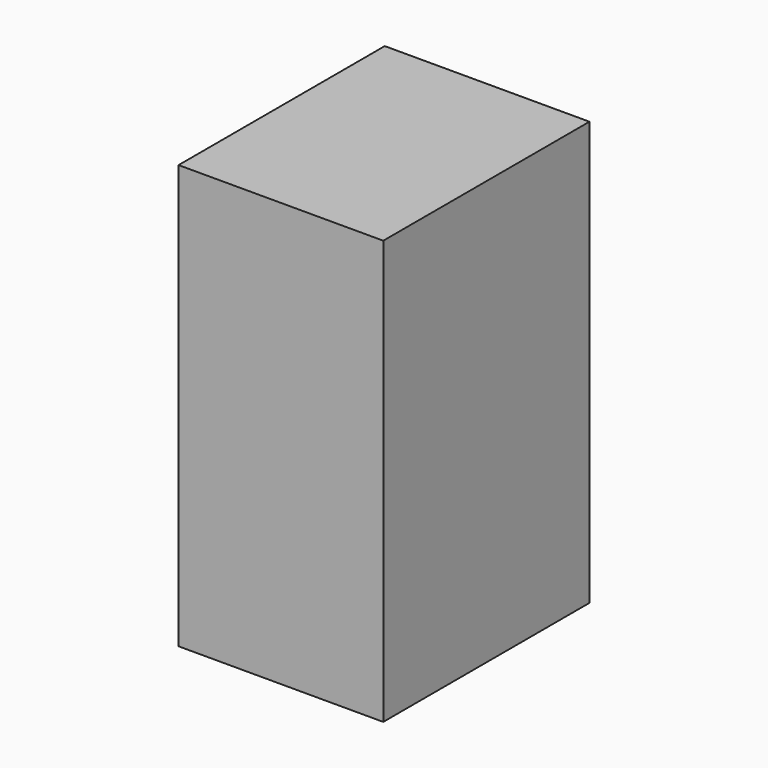
from build123d import *

# Parameters (mm, degrees)
F0_W     = 19.8566309282
F0_H     = 5.8223598103
F0_H_2   = 14.5185794681
F1_DEPTH = 25


with BuildPart() as f1:
    # F0 (on Front) → F1 (new body)
    with BuildSketch(Plane.XZ):
        Polygon((0, -20.7560607215), (0, 0), (-19.8566309282, -0.2075607215), (-19.8566309282, -20.7560607215), align=None)
        with Locations((-9.9283154641, 17.4297593733)):
            Rectangle(F0_W, F0_H)
        with Locations((-9.9283154641, 7.2592897341)):
            Rectangle(F0_W, F0_H_2)
        Polygon((0, 0), (-19.8566309282, 0), (-19.8566309282, -0.2075607215), align=None)
    extrude(amount=F1_DEPTH)


solid = f1.part
